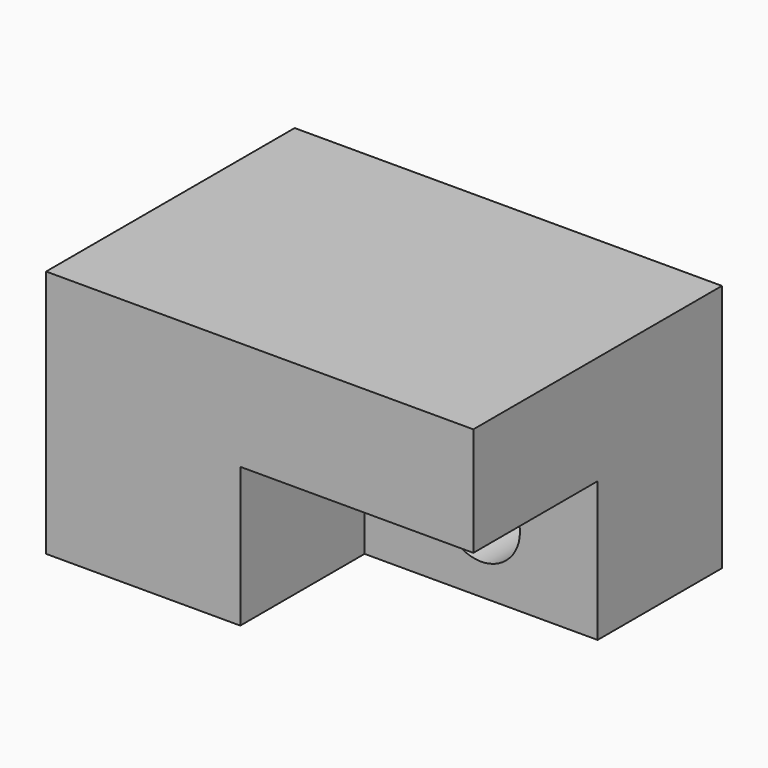
from build123d import *

# Parameters (mm, degrees)
F0_W     = 55
F0_H     = 32
F1_DEPTH = 40
F2_W     = 30
F2_H     = 18
F3_DEPTH = 20
F4_R     = 5
F5_DEPTH = 20.001


with BuildPart() as f1:
    # F0 (on Front) → F1 (new body)
    with BuildSketch(Plane.XZ):
        with Locations((27.5, -16)):
            Rectangle(F0_W, F0_H)
    extrude(amount=F1_DEPTH)

    # F2 (on face) → F3 (cut)
    with BuildSketch(Plane.XZ.offset(40)):
        with Locations((40, -23)):
            Rectangle(F2_W, F2_H)
    extrude(amount=-F3_DEPTH, mode=Mode.SUBTRACT)

    # F4 (on face) → F5 (cut, through all)
    with BuildSketch(Plane.XZ.offset(20)):
        with Locations((40, -23)):
            Circle(F4_R)
    extrude(amount=-F5_DEPTH, mode=Mode.SUBTRACT)


solid = f1.part
